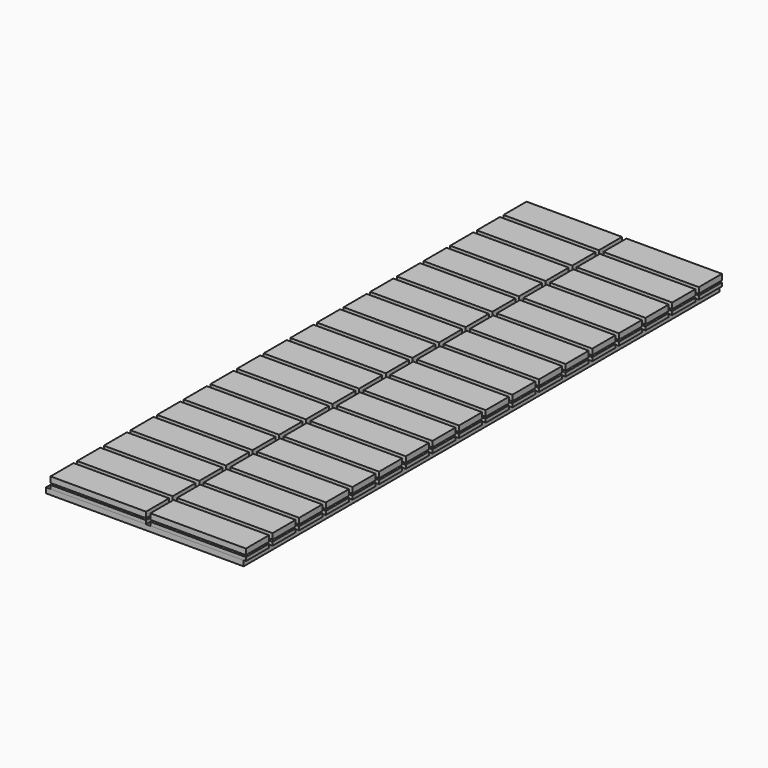
from build123d import *

# Parameters (mm, degrees)
F0_W      = 215
F0_H      = 65
F1_DEPTH  = 25
F2_W      = 12
F2_H      = 4
F3_W      = 12
F3_H      = 4
F4_DEPTH  = 1340.001
F5_W      = 445
F5_H      = 1340
F6_DEPTH  = 12
F7_W      = 191
F7_H      = 4
F8_DEPTH  = 12
F9_W      = 191
F9_H      = 4
F10_DEPTH = 12
F11_W     = 191
F11_H     = 4
F12_DEPTH = 12
F13_W     = 191
F13_H     = 4
F14_DEPTH = 12


with BuildPart() as f1:
    # F0 (on Top) → F1 (new body)
    with BuildSketch(Plane.XY):
        with Locations((-103.864472, 1157.5)):
            Rectangle(F0_W, F0_H)
        with Locations((-103.864472, 1232.5)):
            Rectangle(F0_W, F0_H)
        with Locations((-103.864472, 1307.5)):
            Rectangle(F0_W, F0_H)
        with Locations((-328.864472, 1157.5)):
            Rectangle(F0_W, F0_H)
        with Locations((-328.864472, 1232.5)):
            Rectangle(F0_W, F0_H)
        with Locations((-328.864472, 1307.5)):
            Rectangle(F0_W, F0_H)
        with Locations((-103.864472, 932.5)):
            Rectangle(F0_W, F0_H)
        with Locations((-103.864472, 1007.5)):
            Rectangle(F0_W, F0_H)
        with Locations((-103.864472, 1082.5)):
            Rectangle(F0_W, F0_H)
        with Locations((-328.864472, 932.5)):
            Rectangle(F0_W, F0_H)
        with Locations((-328.864472, 1007.5)):
            Rectangle(F0_W, F0_H)
        with Locations((-328.864472, 1082.5)):
            Rectangle(F0_W, F0_H)
        with Locations((-103.864472, 707.5)):
            Rectangle(F0_W, F0_H)
        with Locations((-103.864472, 782.5)):
            Rectangle(F0_W, F0_H)
        with Locations((-103.864472, 857.5)):
            Rectangle(F0_W, F0_H)
        with Locations((-328.864472, 707.5)):
            Rectangle(F0_W, F0_H)
        with Locations((-328.864472, 782.5)):
            Rectangle(F0_W, F0_H)
        with Locations((-328.864472, 857.5)):
            Rectangle(F0_W, F0_H)
        with Locations((-103.864472, 482.5)):
            Rectangle(F0_W, F0_H)
        with Locations((-103.864472, 557.5)):
            Rectangle(F0_W, F0_H)
        with Locations((-103.864472, 632.5)):
            Rectangle(F0_W, F0_H)
        with Locations((-328.864472, 482.5)):
            Rectangle(F0_W, F0_H)
        with Locations((-328.864472, 557.5)):
            Rectangle(F0_W, F0_H)
        with Locations((-328.864472, 632.5)):
            Rectangle(F0_W, F0_H)
        with Locations((-103.864472, 257.5)):
            Rectangle(F0_W, F0_H)
        with Locations((-103.864472, 332.5)):
            Rectangle(F0_W, F0_H)
        with Locations((-103.864472, 407.5)):
            Rectangle(F0_W, F0_H)
        with Locations((-328.864472, 257.5)):
            Rectangle(F0_W, F0_H)
        with Locations((-328.864472, 332.5)):
            Rectangle(F0_W, F0_H)
        with Locations((-328.864472, 407.5)):
            Rectangle(F0_W, F0_H)
        with Locations((-103.864472, 32.5)):
            Rectangle(F0_W, F0_H)
        with Locations((-103.864472, 107.5)):
            Rectangle(F0_W, F0_H)
        with Locations((-103.864472, 182.5)):
            Rectangle(F0_W, F0_H)
        with Locations((-328.864472, 32.5)):
            Rectangle(F0_W, F0_H)
        with Locations((-328.864472, 107.5)):
            Rectangle(F0_W, F0_H)
        with Locations((-328.864472, 182.5)):
            Rectangle(F0_W, F0_H)
    extrude(amount=F1_DEPTH)

    # F2 (on face) + F3 (on face) → F4 (cut, through all)
    with BuildSketch(Plane.XZ):
        with Locations((-2.364472, 10)):
            Rectangle(F2_W, F2_H)
        with Locations((-205.364472, 10)):
            Rectangle(F2_W, F2_H)
    with BuildSketch(Plane.XZ):
        with Locations((-227.364472, 10)):
            Rectangle(F3_W, F3_H)
        with Locations((-430.364472, 10)):
            Rectangle(F3_W, F3_H)
    extrude(amount=-F4_DEPTH, mode=Mode.SUBTRACT)

    # F7 (on face) → F8 (cut)
    with BuildSketch(Plane.XZ):
        with Locations((-103.864472, 10)):
            Rectangle(F7_W, F7_H)
    extrude(amount=-F8_DEPTH, mode=Mode.SUBTRACT)

    # F9 (on face) → F10 (cut)
    with BuildSketch(Plane.XZ):
        with Locations((-328.864472, 10)):
            Rectangle(F9_W, F9_H)
    extrude(amount=-F10_DEPTH, mode=Mode.SUBTRACT)

    # F11 (on face) → F12 (cut)
    with BuildSketch(Plane(origin=(0, 1340, 0), x_dir=(-1, 0, 0), z_dir=(0, 1, 0))):
        with Locations((103.864472, 10)):
            Rectangle(F11_W, F11_H)
    extrude(amount=-F12_DEPTH, mode=Mode.SUBTRACT)

    # F13 (on face) → F14 (cut)
    with BuildSketch(Plane(origin=(0, 1340, 0), x_dir=(-1, 0, 0), z_dir=(0, 1, 0))):
        with Locations((328.864472, 10)):
            Rectangle(F13_W, F13_H)
    extrude(amount=-F14_DEPTH, mode=Mode.SUBTRACT)


with BuildPart() as f6:
    # F5 (on Top) → F6 (new body)
    with BuildSketch(Plane.XY):
        with Locations((-223.864, 670)):
            Rectangle(F5_W, F5_H)
    extrude(amount=-F6_DEPTH)


solid = Compound([f1.part, f6.part])
